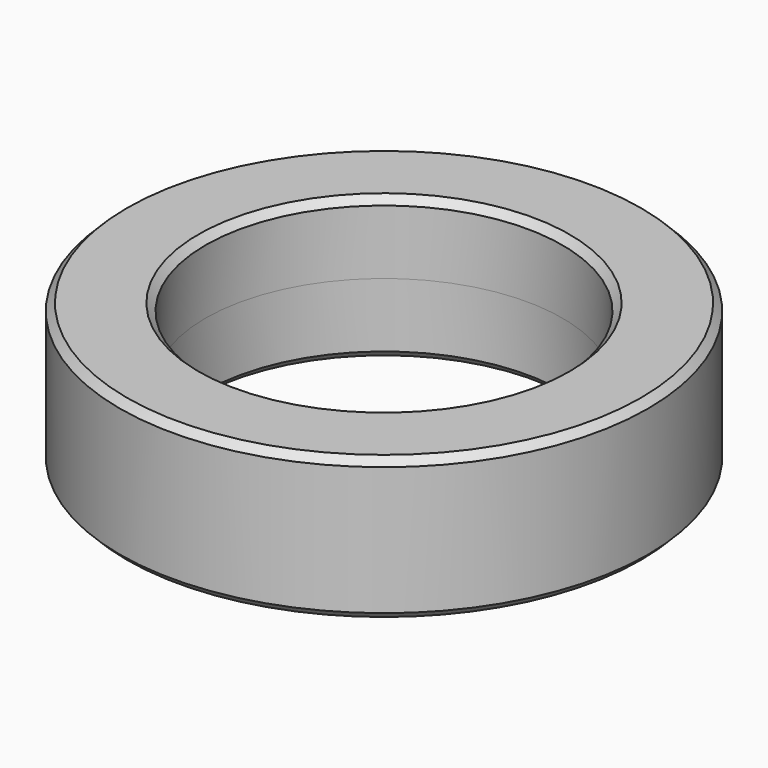
from build123d import *

# Parameters (mm, degrees)
F0_R          = 18.5
F0_R_2        = 12.5
F1_DEPTH      = 5
F1_DEPTH_BACK = 5
F2_SIZE       = 0.5


with BuildPart() as f1:
    # F0 (on Top) → F1 (new body, two sides)
    with BuildSketch(Plane.XY) as f1_sk:
        Circle(F0_R)
        Circle(F0_R_2, mode=Mode.SUBTRACT)
    extrude(amount=F1_DEPTH)
    extrude(f1_sk.sketch, amount=-F1_DEPTH_BACK)

    # F2
    f2_edges = [f1.edges().sort_by_distance(p)[0] for p in [
        (-12.5, 0, -5),
        (-18.5, 0, -5),
        (-12.5, 0, 5),
        (-18.5, 0, 5),
    ]]
    chamfer(f2_edges, length=F2_SIZE)


solid = f1.part
